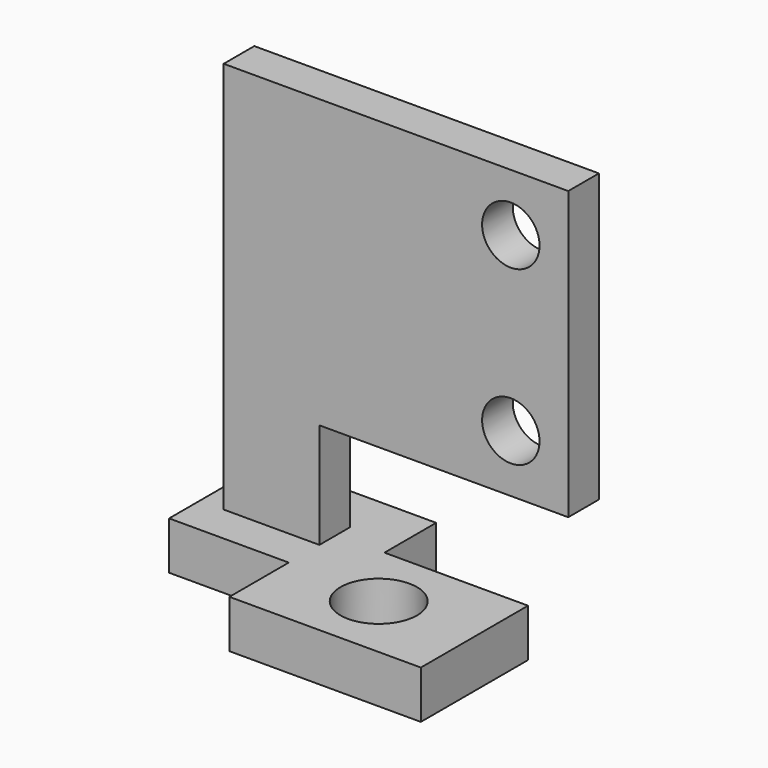
from build123d import *

# Parameters (mm, degrees)
F0_R     = 4
F0_W     = 10
F0_H     = 4
F1_DEPTH = 5
F2_R     = 3
F3_DEPTH = 4


with BuildPart() as f1:
    # F0 (on Top) → F1 (new body)
    with BuildSketch(Plane.XY):
        Polygon((10, 7), (-5, 7), (-5, 13.75), (-22.5, 13.75), (-22.5, 0.75), (-10, 0.75), (-10, -7), (10, -7), align=None)
        Circle(F0_R, mode=Mode.SUBTRACT)
        with Locations((-15, 6.75)):
            Rectangle(F0_W, F0_H, mode=Mode.SUBTRACT)
    extrude(amount=F1_DEPTH)


with BuildPart() as f3:
    # F2 (on face) → F3 (new body)
    with BuildSketch(Plane.XZ.offset(-8.75)):
        Polygon((-20, 16), (-20, 0), (-10, 0), (-10, 16), (16, 16), (16, 46), (-10, 46), (-20, 46), align=None)
        with Locations((10, 22)):
            Circle(F2_R, mode=Mode.SUBTRACT)
        with Locations((10, 40)):
            Circle(F2_R, mode=Mode.SUBTRACT)
    extrude(amount=F3_DEPTH)


solid = Compound([f1.part, f3.part])
